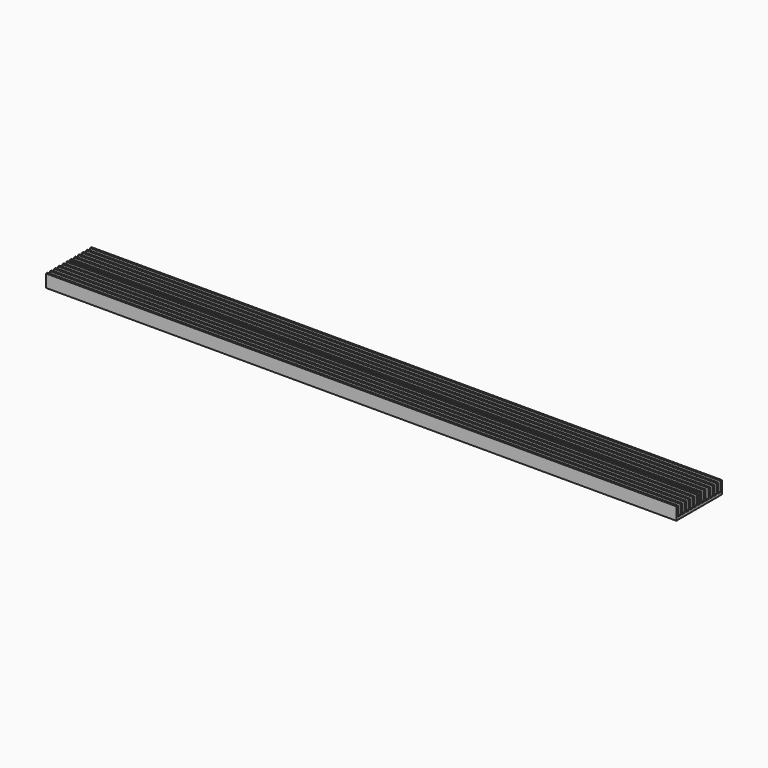
from build123d import *

# Parameters (mm, degrees)
F1_DEPTH = 584.2


with BuildPart() as f1:
    # F0 (on Right) → F1 (new body)
    with BuildSketch(Plane.YZ):
        Polygon((-25.088021, 1.09811), (-26.789821, 1.09811), (-26.789821, -10.68749), (26.016779, -10.68749), (26.016779, 1.09811), (24.314979, 1.09811), (24.314979, -8.19829), (21.317779, -8.19829), (21.317779, 1.09811), (19.615979, 1.09811), (19.615979, -8.19829), (16.618779, -8.19829), (16.618779, 1.09811), (14.916979, 1.09811), (14.916979, -8.19829), (11.919779, -8.19829), (11.919779, 1.09811), (10.217979, 1.09811), (10.217979, -8.19829), (7.220779, -8.19829), (7.220779, 1.09811), (5.518979, 1.09811), (5.518979, -8.19829), (2.521779, -8.19829), (2.521779, 1.09811), (0.819979, 1.09811), (0.819979, -8.19829), (-1.593021, -8.19829), (-1.593021, 1.09811), (-3.294821, 1.09811), (-3.294821, -8.19829), (-6.292021, -8.19829), (-6.292021, 1.09811), (-7.993821, 1.09811), (-7.993821, -8.19829), (-10.991021, -8.19829), (-10.991021, 1.09811), (-12.692821, 1.09811), (-12.692821, -8.19829), (-15.690021, -8.19829), (-15.690021, 1.09811), (-17.391821, 1.09811), (-17.391821, -8.19829), (-20.389021, -8.19829), (-20.389021, 1.09811), (-22.090821, 1.09811), (-22.090821, -8.19829), (-25.088021, -8.19829), align=None)
    extrude(amount=F1_DEPTH)


solid = f1.part
